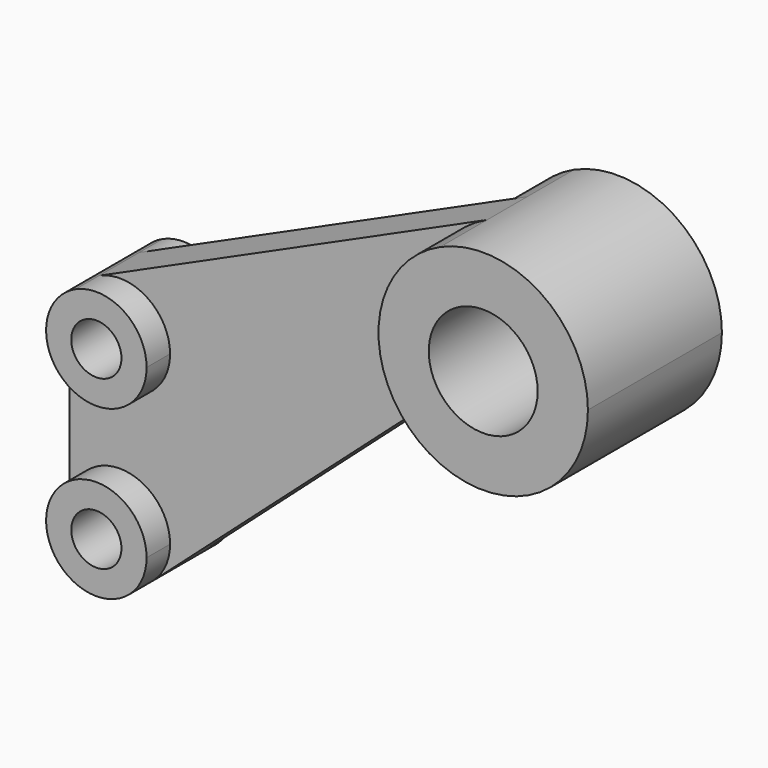
from build123d import *

# Parameters (mm, degrees)
F0_R     = 13.0048
F1_DEPTH = 20.0025
F2_DEPTH = 5.9944
F0_R_2   = 5.9944
F3_DEPTH = 13.0048


with BuildPart() as f1:
    # F0 (on Front) → F1 (new body, symmetric)
    with BuildSketch(Plane.XZ):
        with BuildLine():
            ThreePointArc((-12.949346, -21.392276), (12.278025, -21.784516), (25.0063, 0))
            ThreePointArc((25.0063, 0), (13.562501, 21.008894), (-10.294693, 22.788908))
            ThreePointArc((-10.294693, 22.788908), (-24.961282, 1.499814), (-12.949346, -21.392276))
        make_face()
        Circle(F0_R, mode=Mode.SUBTRACT)
    extrude(amount=F1_DEPTH, both=True)

    # F0 (on Front) → F2 (join, symmetric)
    with BuildSketch(Plane.XZ):
        with BuildLine():
            ThreePointArc((-12.949346, -21.392276), (-24.961282, 1.499814), (-10.294693, 22.788908))
            Line((-10.294693, 22.788908), (-102.934025, -19.060113))
            ThreePointArc((-102.934025, -19.060113), (-91.484026, -19.914411), (-85.9917, -29.9974))
            ThreePointArc((-85.9917, -29.9974), (-97.9932, -41.9989), (-109.9947, -29.9974))
            Line((-109.9947, -29.9974), (-109.9947, -70.0024))
            ThreePointArc((-109.9947, -70.0024), (-97.9932, -58.0009), (-85.9917, -70.0024))
            ThreePointArc((-85.9917, -70.0024), (-87.042616, -74.913685), (-90.011317, -78.964852))
            Line((-90.011317, -78.964852), (-25.365987, -21.392276))
            ThreePointArc((-25.365987, -21.392276), (-19.157667, -19.6596), (-12.949346, -21.392276))
        make_face()
    extrude(amount=F2_DEPTH, both=True)

    # F0 (on Front) → F3 (join, symmetric)
    with BuildSketch(Plane.XZ):
        with BuildLine():
            ThreePointArc((-85.9917, -29.9974), (-91.484026, -19.914411), (-102.934025, -19.060113))
            ThreePointArc((-102.934025, -19.060113), (-108.076189, -23.488226), (-109.9947, -29.9974))
            ThreePointArc((-109.9947, -29.9974), (-97.9932, -41.9989), (-85.9917, -29.9974))
        make_face()
        with Locations((-97.9932, -29.9974)):
            Circle(F0_R_2, mode=Mode.SUBTRACT)
        with BuildLine():
            ThreePointArc((-109.9947, -70.0024), (-102.904485, -80.952984), (-90.011317, -78.964852))
            ThreePointArc((-90.011317, -78.964852), (-87.042616, -74.913685), (-85.9917, -70.0024))
            ThreePointArc((-85.9917, -70.0024), (-97.9932, -58.0009), (-109.9947, -70.0024))
        make_face()
        with Locations((-97.9932, -70.0024)):
            Circle(F0_R_2, mode=Mode.SUBTRACT)
    extrude(amount=F3_DEPTH, both=True)


solid = f1.part
